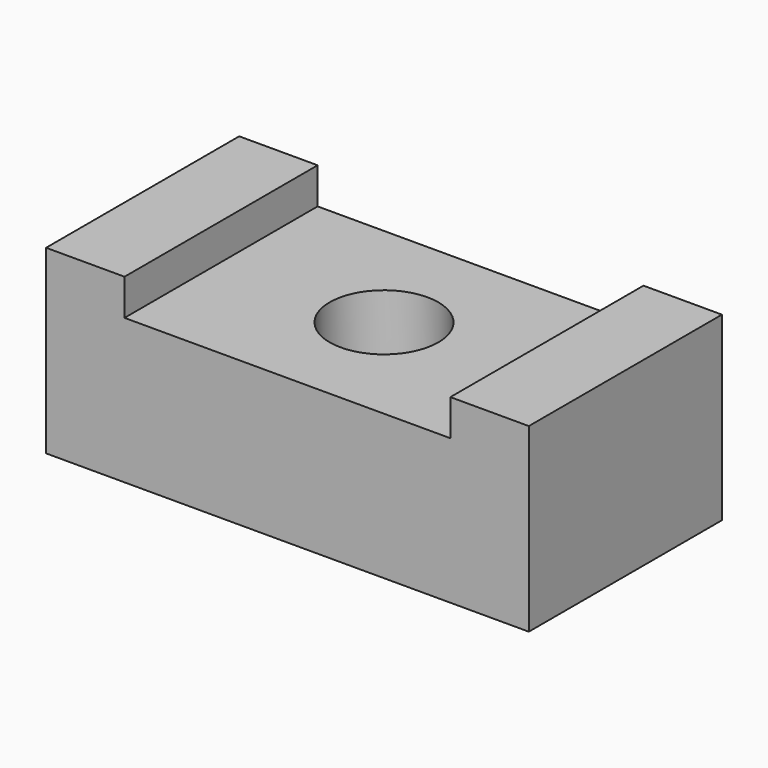
from build123d import *

# Parameters (mm, degrees)
F0_W     = 40
F0_H     = 20
F0_R     = 2.5
F1_DEPTH = 15
F2_W     = 27
F2_H     = 20
F2_R     = 2.5
F3_DEPTH = 3
F4_R     = 4.5
F5_DEPTH = 5


with BuildPart() as f1:
    # F0 (on Top) → F1 (new body)
    with BuildSketch(Plane.XY):
        Rectangle(F0_W, F0_H)
        Circle(F0_R, mode=Mode.SUBTRACT)
    extrude(amount=F1_DEPTH)

    # F2 (on face) → F3 (cut)
    with BuildSketch(Plane.XY.offset(15)):
        Rectangle(F2_W, F2_H)
        Circle(F2_R, mode=Mode.SUBTRACT)
    extrude(amount=-F3_DEPTH, mode=Mode.SUBTRACT)

    # F4 (on face) → F5 (cut)
    with BuildSketch(Plane.XY.offset(12)):
        Circle(F4_R)
    extrude(amount=-F5_DEPTH, mode=Mode.SUBTRACT)


solid = f1.part
